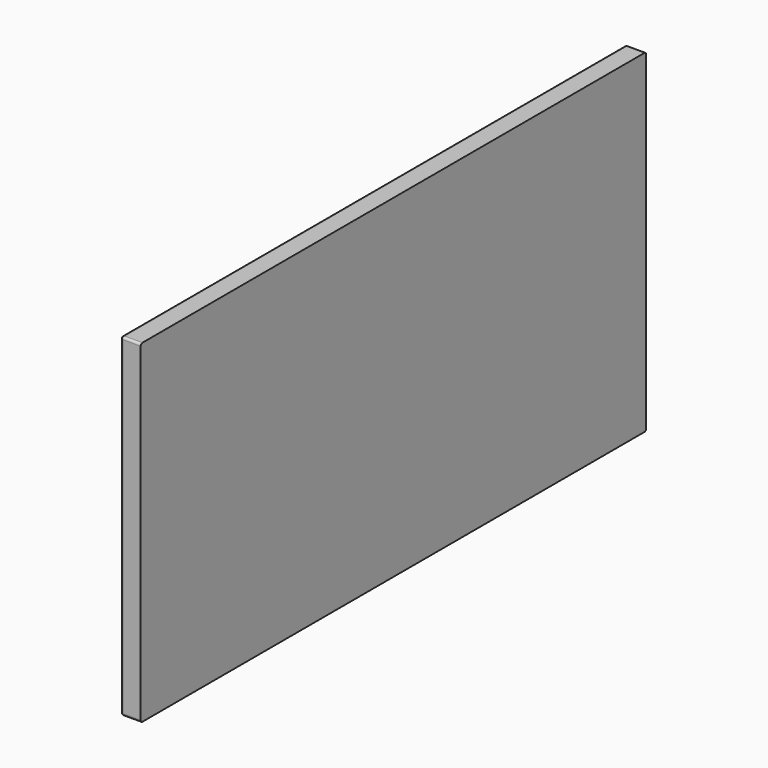
from build123d import *

# Parameters (mm, degrees)
F0_W     = 568
F0_H     = 300
F1_DEPTH = 9
F2_R     = 2


with BuildPart() as f1:
    # F0 (on Right) → F1 (new body, symmetric)
    with BuildSketch(Plane.YZ):
        Rectangle(F0_W, F0_H)
    extrude(amount=F1_DEPTH, both=True)

    # F2
    f2_edges = [f1.edges().sort_by_distance(p)[0] for p in [
        (-9, 0, 150),
        (-9, -284, 0),
        (-9, 0, -150),
        (-9, 284, 0),
        (0, 284, 150),
        (0, 284, -150),
        (0, -284, 150),
        (0, -284, -150),
    ]]
    fillet(f2_edges, radius=F2_R)


solid = f1.part
